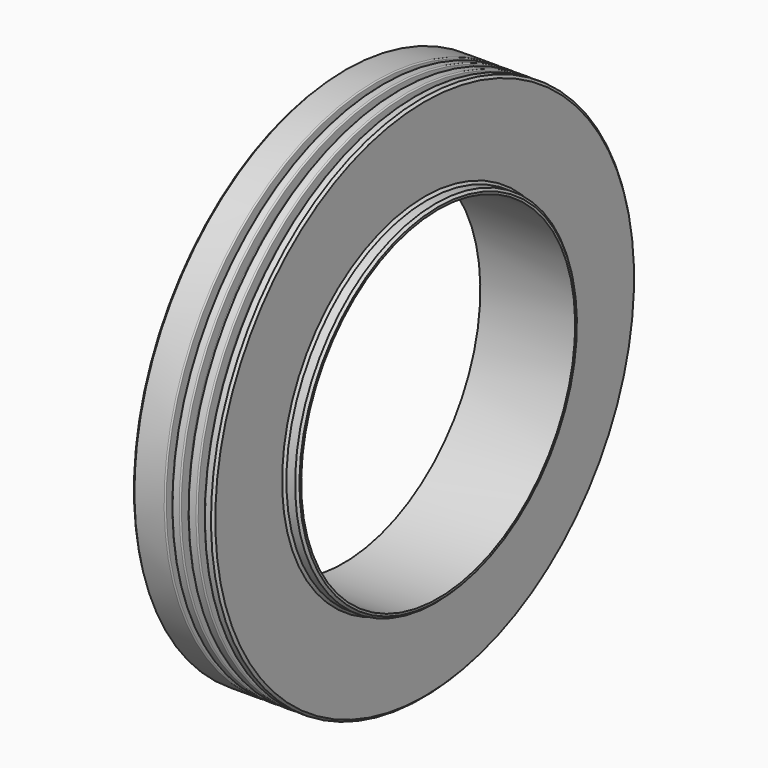
from build123d import *

# Parameters (mm, degrees)
F2_SIZE = 1


with BuildPart() as f1:
    # F0 (on Front) → F1 (revolve)
    with BuildSketch(Plane.XZ):
        with BuildLine():
            Line((0, 38.8), (0, 0))
            Line((0, 0), (39.6, 0))
            Line((39.6, 0), (39.6, 1.9179800292))
            Line((39.6, 1.9179800292), (33.9595302939, 1.9179800292))
            Line((33.9595302939, 1.9179800292), (33.9595302939, 38.8))
            Line((33.9595302939, 38.8), (30.6235690713, 38.8))
            ThreePointArc((30.6235690713, 38.8), (30.2700156807, 38.6535533906), (30.1235690713, 38.3))
            Line((30.1235690713, 38.3), (30.1235690713, 34.6181270778))
            ThreePointArc((30.1235690713, 34.6181270778), (29.9771224619, 34.2645736872), (29.6235690713, 34.1181270778))
            Line((29.6235690713, 34.1181270778), (27.690187946, 34.1181270778))
            ThreePointArc((27.690187946, 34.1181270778), (27.3366345554, 34.2645736872), (27.190187946, 34.6181270778))
            Line((27.190187946, 34.6181270778), (27.190187946, 38.3))
            ThreePointArc((27.190187946, 38.3), (27.0437413366, 38.6535533906), (26.690187946, 38.8))
            Line((26.690187946, 38.8), (23.8542267233, 38.8))
            ThreePointArc((23.8542267233, 38.8), (23.5006733327, 38.6535533906), (23.3542267233, 38.3))
            Line((23.3542267233, 38.3), (23.3542267233, 34.6181270778))
            ThreePointArc((23.3542267233, 34.6181270778), (23.2077801139, 34.2645736872), (22.8542267233, 34.1181270778))
            Line((22.8542267233, 34.1181270778), (20.6951991767, 34.1181270778))
            ThreePointArc((20.6951991767, 34.1181270778), (20.3416457861, 34.2645736872), (20.1951991767, 34.6181270778))
            Line((20.1951991767, 34.6181270778), (20.1951991767, 38.3))
            ThreePointArc((20.1951991767, 38.3), (20.0487525673, 38.6535533906), (19.6951991767, 38.8))
            Line((19.6951991767, 38.8), (17.0848871693, 38.8))
            ThreePointArc((17.0848871693, 38.8), (16.7313337787, 38.6535533906), (16.5848871693, 38.3))
            Line((16.5848871693, 38.3), (16.5848871693, 34.6181270778))
            ThreePointArc((16.5848871693, 34.6181270778), (16.4384405599, 34.2645736872), (16.0848871693, 34.1181270778))
            Line((16.0848871693, 34.1181270778), (14.3922360148, 34.1181270778))
            ThreePointArc((14.3922360148, 34.1181270778), (14.0386826242, 34.2645736872), (13.8922360148, 34.6181270778))
            Line((13.8922360148, 34.6181270778), (13.8922360148, 38.3))
            ThreePointArc((13.8922360148, 38.3), (13.7457894054, 38.6535533906), (13.3922360148, 38.8))
            Line((13.3922360148, 38.8), (0, 38.8))
        make_face()
    revolve(axis=Axis((21.1924966425, 0, -71.5), (1, 0, 0)))

    # F2
    f2_edges = [f1.edges().sort_by_distance(p)[0] for p in [
        (0, 0, -181.8),
        (33.95953, 0, -181.8),
        (33.95953, 0, -144.91798),
        (39.6, 0, -144.91798),
    ]]
    chamfer(f2_edges, length=F2_SIZE)


solid = f1.part
